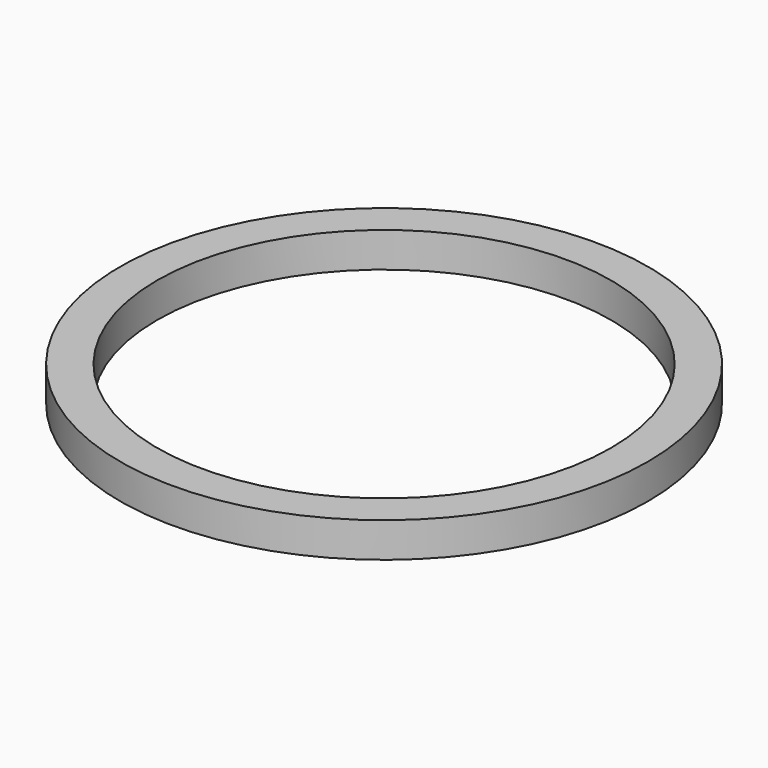
from build123d import *

# Parameters (mm, degrees)
CYLINDER158_R     = 20.635
CYLINDER158_DEPTH = 41.275
CYLINDER157_R     = 24
CYLINDER157_DEPTH = 3.175


with BuildPart() as cylinder010:
    # Cylinder158 → Cylinder158 (new body)
    with BuildSketch(Plane.XY):
        Circle(CYLINDER158_R)
    extrude(amount=CYLINDER158_DEPTH)


with BuildPart() as cut020:
    # Cylinder157 → Cylinder157 (new body)
    with BuildSketch(Plane.XY):
        Circle(CYLINDER157_R)
    extrude(amount=CYLINDER157_DEPTH)

    # Cut020: cut Cylinder010
    add(cylinder010.part, mode=Mode.SUBTRACT)


with BuildPart() as cut020_1:
    # Cut020 placement: moved
    add(cut020.part.moved(Location((0, 61, 0))))


solid = cut020_1.part
